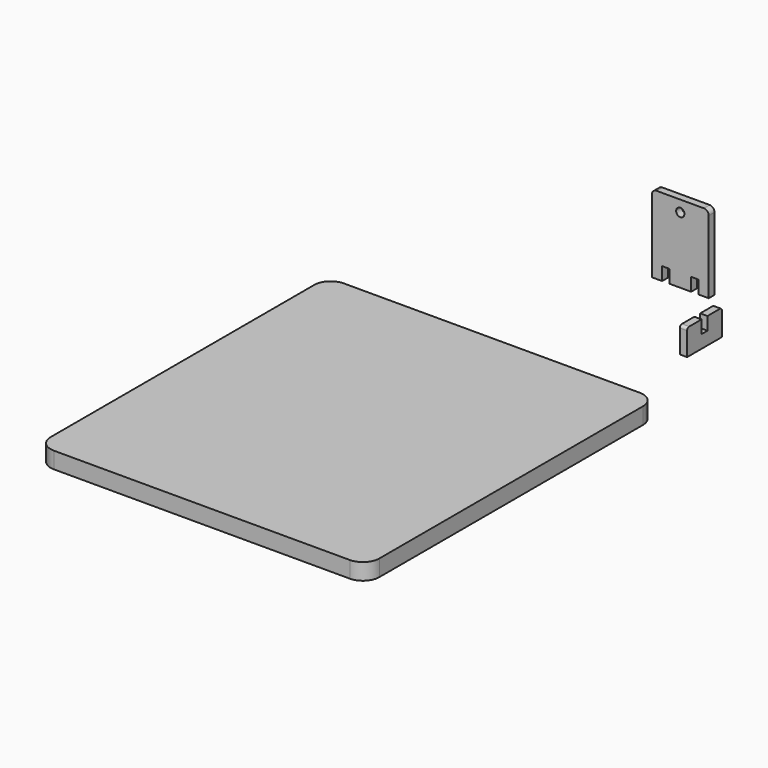
from build123d import *

# Parameters (mm, degrees)
F2_DEPTH  = 6.35
F4_DEPTH  = 2.8
F6_DEPTH  = 2.8
F10_R     = 1.605173025
F11_DEPTH = 2.8


with BuildPart() as f2:
    # F1 (on Top) → F2 (new body)
    with BuildSketch(Plane.XY):
        with BuildLine():
            Line((60.4340874046, 111.5668434466), (-53.8659125954, 111.5668434466))
            ThreePointArc((-53.8659125954, 111.5668434466), (-58.3560406559, 109.7069715072), (-60.2159125954, 105.2168434466))
            Line((-60.2159125954, 105.2168434466), (-60.2159125954, -22.0831565534))
            ThreePointArc((-60.2159125954, -22.0831565534), (-58.3560406559, -26.5732846139), (-53.8659125954, -28.4331565534))
            Line((-53.8659125954, -28.4331565534), (60.4340874046, -28.4331565534))
            ThreePointArc((60.4340874046, -28.4331565534), (64.9242154651, -26.5732846139), (66.7840874046, -22.0831565534))
            Line((66.7840874046, -22.0831565534), (66.7840874046, 105.2168434466))
            ThreePointArc((66.7840874046, 105.2168434466), (64.9242154651, 109.7069715072), (60.4340874046, 111.5668434466))
        make_face()
    extrude(amount=F2_DEPTH)


with BuildPart() as f4:
    # F3 (on Front) → F4 (new body)
    with BuildSketch(Plane.XZ):
        with BuildLine():
            ThreePointArc((107.2241441607, 43.0810111997), (106.6661825789, 44.4280496178), (105.3191441607, 44.9860111997))
            Line((105.3191441607, 44.9860111997), (87.1291441607, 44.9860111997))
            ThreePointArc((87.1291441607, 44.9860111997), (85.7821057426, 44.4280496178), (85.2241441607, 43.0810111997))
            Line((85.2241441607, 43.0810111997), (85.2241441607, 14.9860111997))
            Line((85.2241441607, 14.9860111997), (89.2241441607, 14.9860111997))
            Line((89.2241441607, 14.9860111997), (89.2241441607, 20.0660111997))
            Line((89.2241441607, 20.0660111997), (92.0241441607, 20.0660111997))
            Line((92.0241441607, 20.0660111997), (92.0241441607, 14.9860111997))
            Line((92.0241441607, 14.9860111997), (100.4241441607, 14.9860111997))
            Line((100.4241441607, 14.9860111997), (100.4241441607, 20.0660111997))
            Line((100.4241441607, 20.0660111997), (103.2241441607, 20.0660111997))
            Line((103.2241441607, 20.0660111997), (103.2241441607, 14.9860111997))
            Line((103.2241441607, 14.9860111997), (107.2241441607, 14.9860111997))
            Line((107.2241441607, 14.9860111997), (107.2241441607, 43.0810111997))
        make_face()
    extrude(amount=F4_DEPTH)


with BuildPart() as f6:
    # F5 (on Right) → F6 (new body)
    with BuildSketch(Plane.YZ):
        with BuildLine():
            Line((87.4748826027, -1.3999999501), (104.2748826027, -1.3999999501))
            Line((104.2748826027, -1.3999999501), (104.2748826027, 7.6000000499))
            ThreePointArc((104.2748826027, 7.6000000499), (103.9819893839, 8.3071068311), (103.2748826027, 8.6000000499))
            Line((103.2748826027, 8.6000000499), (97.2748826027, 8.6000000499))
            Line((97.2748826027, 8.6000000499), (97.2748826027, 3.6000000499))
            Line((97.2748826027, 3.6000000499), (94.4748826027, 3.6000000499))
            Line((94.4748826027, 3.6000000499), (94.4748826027, 8.6000000499))
            Line((94.4748826027, 8.6000000499), (88.4748826027, 8.6000000499))
            ThreePointArc((88.4748826027, 8.6000000499), (87.7677758215, 8.3071068311), (87.4748826027, 7.6000000499))
            Line((87.4748826027, 7.6000000499), (87.4748826027, -1.3999999501))
        make_face()
    extrude(amount=F6_DEPTH)


with BuildPart() as f4_1:
    # F7: moved
    add(f4.part.moved(Location((21, 48.4, 40.2))))


with BuildPart() as f6_1:
    # F8: moved
    add(f6.part.moved(Location((109.1, -17.3, 53.4))))


with BuildPart() as f4_2:
    # F9: moved
    add(f4_1.part.moved(Location((0, 14.6, 26.2))))

    # F10 (on face) → F11 (cut, through all)
    with BuildSketch(Plane.XZ.offset(-60.2)):
        with Locations((117.2241441607, 107.0009097457)):
            Circle(F10_R)
    extrude(amount=-F11_DEPTH, mode=Mode.SUBTRACT)


solid = Compound([f2.part, f6_1.part, f4_2.part])
